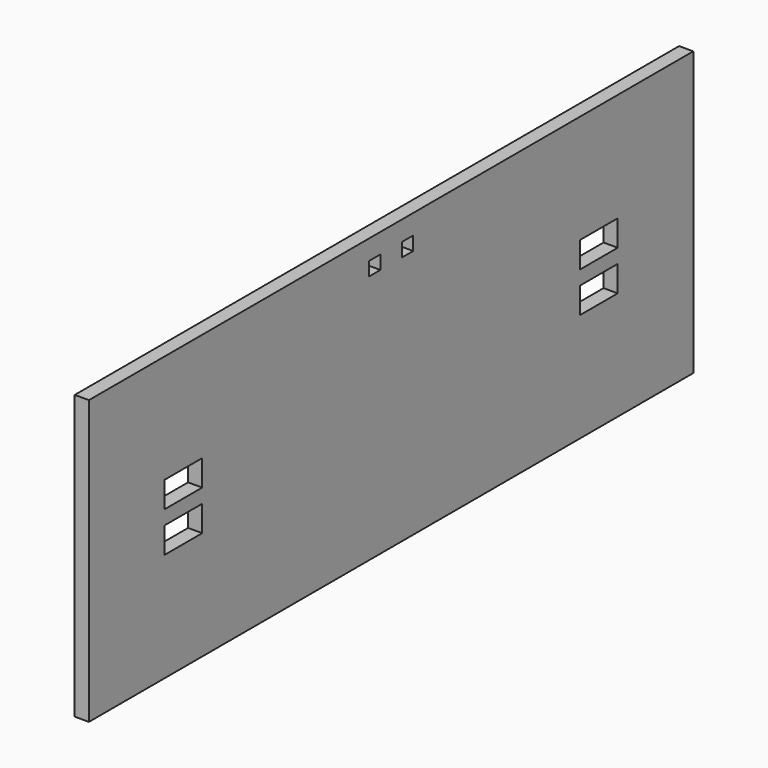
from build123d import *

# Parameters (mm, degrees)
F1_DEPTH = 3
F2_W     = 10
F2_H     = 5.5
F3_DEPTH = 25
F4_W     = 3.02
F4_H     = 2.9
F5_DEPTH = 25


with BuildPart() as f1:
    # F0 (on Right) → F1 (new body)
    with BuildSketch(Plane.YZ):
        Polygon((80, 30), (0, 30), (-80, 30), (-80, -30), (0, -30), (80, -30), align=None)
    extrude(amount=F1_DEPTH)

    # F2 (on face) → F3 (cut)
    with BuildSketch(Plane.YZ.offset(3)):
        with Locations((-55, -4.25)):
            Rectangle(F2_W, F2_H)
        with Locations((-55, 4.25)):
            Rectangle(F2_W, F2_H)
        with Locations((55, 4.25)):
            Rectangle(F2_W, F2_H)
        with Locations((55, -4.25)):
            Rectangle(F2_W, F2_H)
    extrude(amount=-F3_DEPTH, mode=Mode.SUBTRACT)

    # F4 (on face) → F5 (cut)
    with BuildSketch(Plane.YZ.offset(3)):
        with Locations((-4.346554, 24.356653)):
            Rectangle(F4_W, F4_H)
        with Locations((4.346554, 24.356653)):
            Rectangle(F4_W, F4_H)
    extrude(amount=-F5_DEPTH, mode=Mode.SUBTRACT)


solid = f1.part
